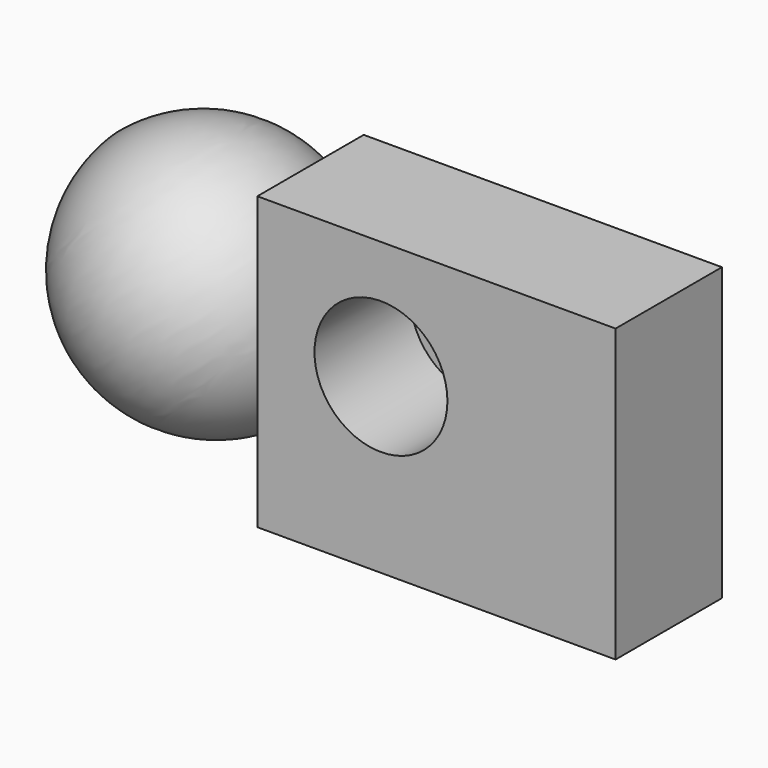
from build123d import *

# Parameters (mm, degrees)
F2_W     = 68.442289019
F2_H     = 55.6696113199
F3_DEPTH = 25.4
F4_R     = 12.7
F5_DEPTH = 22.86


with BuildPart() as f1:
    # F0 (on Front) → F1 (revolve)
    with BuildSketch(Plane.XZ):
        with BuildLine():
            Line((-43.7389758591, 26.6065209008), (-7.6176610741, -9.0374038625))
            ThreePointArc((-7.6176610741, -9.0374038625), (-8.6538708308, 26.0370198062), (-43.7389758591, 26.6065209008))
        make_face()
    revolve(axis=Axis((-25.6783184666, 0, 8.7845585191), (0.7117947824, 0, -0.7023874912)))


with BuildPart() as f3:
    # F2 (on Front) → F3 (new body)
    with BuildSketch(Plane.XZ):
        with Locations((37.9565487383, 13.9776514843)):
            Rectangle(F2_W, F2_H)
    extrude(amount=F3_DEPTH)

    # F4 (on face) → F5 (cut)
    with BuildSketch(Plane.XZ.offset(25.4)):
        with Locations((27.3528154939, 19.159020856)):
            Circle(F4_R)
    extrude(amount=-F5_DEPTH, mode=Mode.SUBTRACT)


solid = Compound([f1.part, f3.part])
